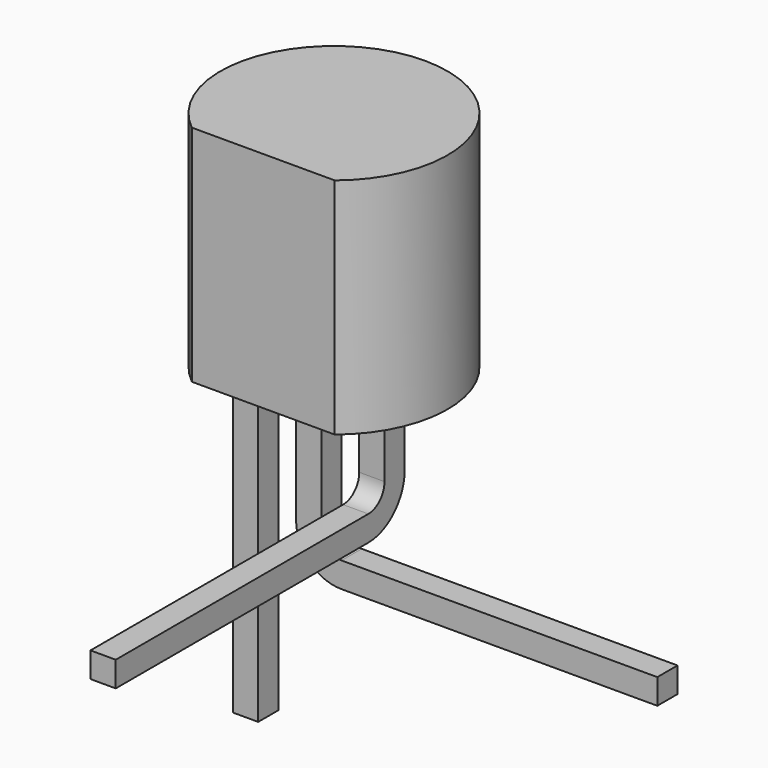
from build123d import *

# Parameters (mm, degrees)
F0_W       = 0.508
F0_H       = 0.508
F1_DEPTH   = 4.5
F2_DEPTH   = 1.27
F3_DEPTH   = 2.54
F4_DEPTH   = 6.35
F2_FACE1_W = 0.508
F2_FACE1_H = 0.508
F6_ANGLE   = 90
F7_DEPTH   = 6.35
F3_FACE1_W = 0.508
F3_FACE1_H = 0.508
F9_ANGLE   = 90
F10_DEPTH  = 6.35


with BuildPart() as f1:
    # F0 (on Top) → F1 (new body)
    with BuildSketch(Plane.XY):
        with BuildLine():
            Line((0, -1.778), (1.4368409794, -1.778))
            ThreePointArc((1.4368409794, -1.778), (0, 2.286), (-1.4368409794, -1.778))
            Line((-1.4368409794, -1.778), (0, -1.778))
        make_face()
        with Locations((-1.27, -0.381)):
            Rectangle(F0_W, F0_H, mode=Mode.SUBTRACT)
        with Locations((0, -0.381)):
            Rectangle(F0_W, F0_H, mode=Mode.SUBTRACT)
        with Locations((1.27, -0.381)):
            Rectangle(F0_W, F0_H, mode=Mode.SUBTRACT)
        with Locations((-1.27, -0.381)):
            Rectangle(F0_W, F0_H)
        with Locations((0, -0.381)):
            Rectangle(F0_W, F0_H)
        with Locations((1.27, -0.381)):
            Rectangle(F0_W, F0_H)
    extrude(amount=F1_DEPTH)

    # F0 (on Top) → F2 (join)
    with BuildSketch(Plane.XY):
        with Locations((1.27, -0.381)):
            Rectangle(F0_W, F0_H)
    extrude(amount=-F2_DEPTH)

    # F0 (on Top) → F3 (join)
    with BuildSketch(Plane.XY):
        with Locations((0, -0.381)):
            Rectangle(F0_W, F0_H)
    extrude(amount=-F3_DEPTH)

    # F0 (on Top) → F4 (join)
    with BuildSketch(Plane.XY):
        with Locations((-1.27, -0.381)):
            Rectangle(F0_W, F0_H)
    extrude(amount=-F4_DEPTH)

    # F2_face1 (on face) → F6 (revolve)
    with BuildSketch(Plane(origin=(1.27, -0.381, -1.27), x_dir=(1, 0, 0), z_dir=(0, 0, -1))):
        Rectangle(F2_FACE1_W, F2_FACE1_H)
    revolve(axis=Axis((1.524, -1.0414, -1.27), (-1, 0, 0)), revolution_arc=F6_ANGLE)

    # F7 (add): a face of the model
    f7_faces = [f1.faces().sort_by_distance(p)[0] for p in [
        (1.27, -1.0414, -1.9304),
    ]]
    extrude(f7_faces, amount=F7_DEPTH)

    # F3_face1 (on face) → F9 (revolve)
    with BuildSketch(Plane(origin=(0, -0.381, -2.54), x_dir=(1, 0, 0), z_dir=(0, 0, -1))):
        Rectangle(F3_FACE1_W, F3_FACE1_H)
    revolve(axis=Axis((0.6604, -0.635, -2.54), (0, -1, 0)), revolution_arc=F9_ANGLE)

    # F10 (add): a face of the model
    f10_faces = [f1.faces().sort_by_distance(p)[0] for p in [
        (0.6604, -0.381, -3.2004),
    ]]
    extrude(f10_faces, amount=F10_DEPTH)


solid = f1.part
